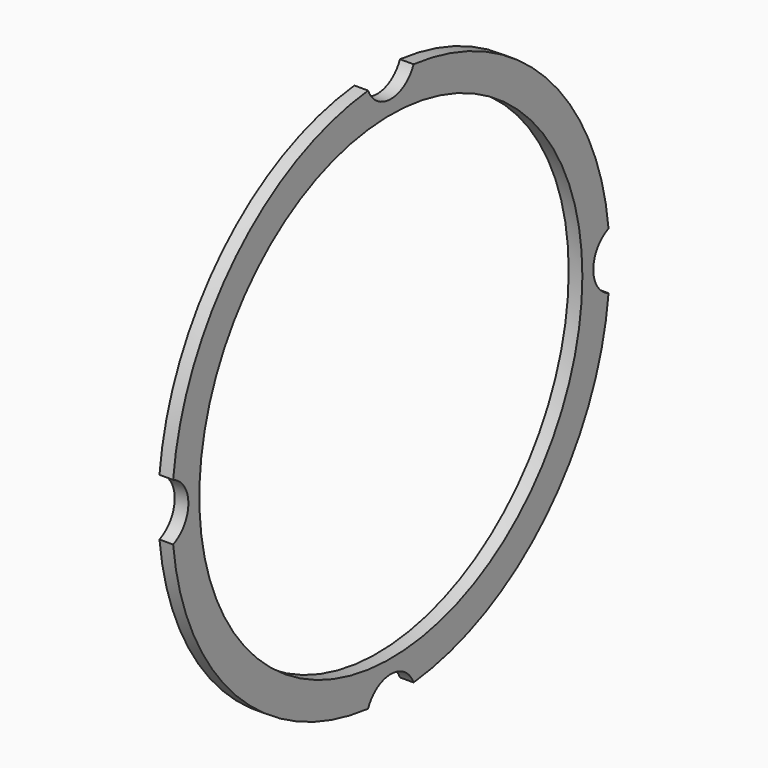
from build123d import *

# Parameters (mm, degrees)
F0_R     = 35
F1_DEPTH = 2


with BuildPart() as f1:
    # F0 (on Right) → F1 (new body)
    with BuildSketch(Plane.YZ):
        with BuildLine():
            ThreePointArc((4.159611, 39.783133), (0, 37), (-4.159611, 39.783133))
            ThreePointArc((-4.159611, 39.783133), (-28.284271, 28.284271), (-39.783133, 4.159611))
            ThreePointArc((-39.783133, 4.159611), (-37, 0), (-39.783133, -4.159611))
            ThreePointArc((-39.783133, -4.159611), (-28.284271, -28.284271), (-4.159611, -39.783133))
            ThreePointArc((-4.159611, -39.783133), (0, -37), (4.159611, -39.783133))
            ThreePointArc((4.159611, -39.783133), (28.284271, -28.284271), (39.783133, -4.159611))
            ThreePointArc((39.783133, -4.159611), (37, 0), (39.783133, 4.159611))
            ThreePointArc((39.783133, 4.159611), (28.284271, 28.284271), (4.159611, 39.783133))
        make_face()
        Circle(F0_R, mode=Mode.SUBTRACT)
    extrude(amount=F1_DEPTH)


solid = f1.part
